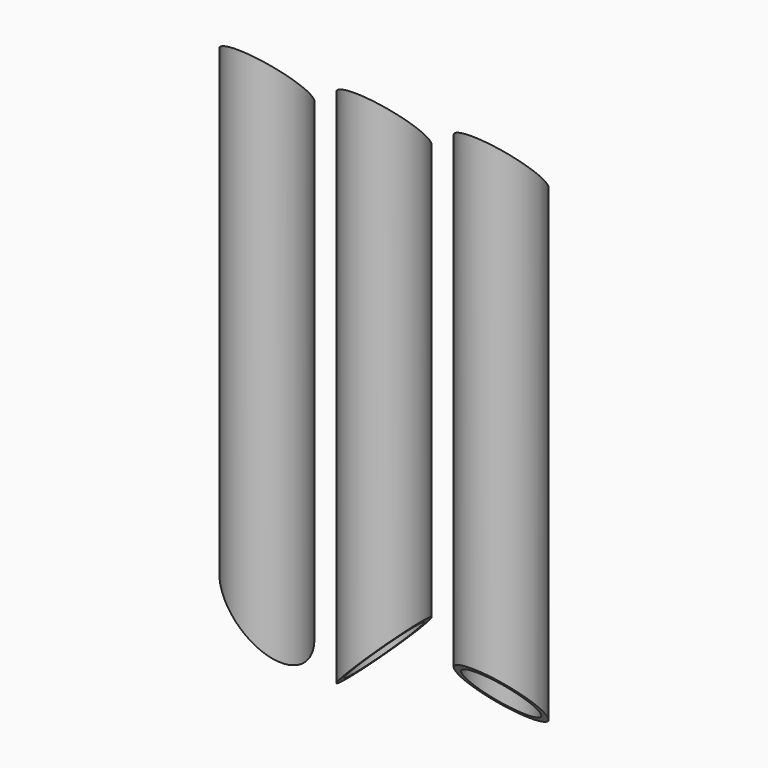
from build123d import *

# Parameters (mm, degrees)
F0_R      = 24.13
F0_R_2    = 20.447
F1_DEPTH  = 381
F2_R      = 24.13
F2_R_2    = 20.447
F3_DEPTH  = 228.6
F5_DEPTH  = 76.2
F7_DEPTH  = 76.2
F8_R      = 24.13
F8_R_2    = 20.447
F9_DEPTH  = 254
F11_DEPTH = 152.4
F13_DEPTH = 76.2
F16_DEPTH = 76.2


with BuildPart() as f1:
    # F0 (on Top) → F1 (new body, symmetric)
    with BuildSketch(Plane.XY):
        Circle(F0_R)
        Circle(F0_R_2, mode=Mode.SUBTRACT)
    extrude(amount=F1_DEPTH, both=True)


with BuildPart() as f3:
    # F2 (on Top) → F3 (new body, symmetric)
    with BuildSketch(Plane.XY):
        with Locations((-76.2, 0)):
            Circle(F2_R)
        with Locations((-76.2, 0)):
            Circle(F2_R_2, mode=Mode.SUBTRACT)
        with Locations((-76.2, 0)):
            Circle(F2_R)
        with Locations((-76.2, 0)):
            Circle(F2_R_2, mode=Mode.SUBTRACT)
    extrude(amount=F3_DEPTH, both=True)


with BuildPart() as f5_tool:
    # F4 (on Front) → F5 (new body, symmetric)
    with BuildSketch(Plane.XZ):
        Polygon((76.2, -76.2), (0, -152.4), (-76.2, -228.6), (-403.8831914788, -406.4), (440.9483480078, -406.4), align=None)
    extrude(amount=F5_DEPTH, both=True)


with BuildPart() as f1_1:
    add(f1.part)

    # F5: cut by f5_tool
    add(f5_tool.part, mode=Mode.SUBTRACT)


with BuildPart() as f3_1:
    add(f3.part)

    # F5: cut by f5_tool
    add(f5_tool.part, mode=Mode.SUBTRACT)


with BuildPart() as f7_tool:
    # F6 (on Right) → F7 (new body, symmetric)
    with BuildSketch(Plane.YZ):
        Polygon((-76.2, 228.6), (0, 152.4), (76.2, 76.2), (76.2, 457.2), (-76.2, 457.2), align=None)
    extrude(amount=F7_DEPTH, both=True)


with BuildPart() as f1_2:
    add(f1_1.part)

    # F7: cut by f7_tool
    add(f7_tool.part, mode=Mode.SUBTRACT)


with BuildPart() as f3_2:
    add(f3_1.part)

    # F7: cut by f7_tool
    add(f7_tool.part, mode=Mode.SUBTRACT)


with BuildPart() as f9:
    # F8 (on Top) → F9 (new body, symmetric)
    with BuildSketch(Plane.XY):
        with Locations((76.2, 0)):
            Circle(F8_R)
        with Locations((76.2, 0)):
            Circle(F8_R_2, mode=Mode.SUBTRACT)
    extrude(amount=F9_DEPTH, both=True)


with BuildPart() as f11_tool:
    # F10 (on Right) → F11 (new body, symmetric)
    with BuildSketch(Plane.YZ):
        Polygon((-76.2, 228.6), (0, 152.4), (76.2, 76.2), (76.2, 304.8), (-76.2, 304.8), align=None)
    extrude(amount=F11_DEPTH, both=True)


with BuildPart() as f3_3:
    add(f3_2.part)

    # F11: cut by f11_tool
    add(f11_tool.part, mode=Mode.SUBTRACT)

    # F12 (on Front) → F13 (cut, symmetric)
    with BuildSketch(Plane.XZ):
        Polygon((0, -228.6), (-76.2, -152.4), (-152.4, -76.2), (-152.4, -304.8), (0, -304.8), align=None)
    extrude(amount=F13_DEPTH, both=True, mode=Mode.SUBTRACT)


with BuildPart() as f9_1:
    add(f9.part)

    # F11: cut by f11_tool
    add(f11_tool.part, mode=Mode.SUBTRACT)

    # F15 (on offset) → F16 (cut, symmetric)
    with BuildSketch(Plane.YZ.offset(76.2)):
        Polygon((76.2, -228.6), (0, -152.4), (-76.2, -76.2), (-76.2, -304.8), (76.2, -304.8), align=None)
    extrude(amount=F16_DEPTH, both=True, mode=Mode.SUBTRACT)


solid = Compound([f1_2.part, f3_3.part, f9_1.part])
